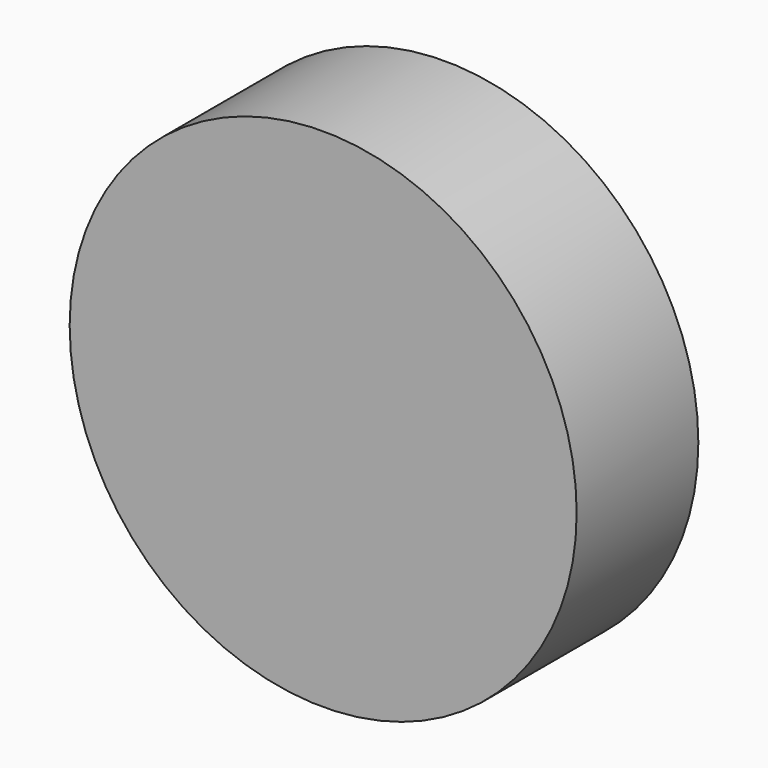
from build123d import *

# Parameters (mm, degrees)
SKETCH_R  = 5
PAD_DEPTH = 3


with BuildPart() as part:
    # Sketch → Pad (new body)
    with BuildSketch(Plane.XZ):
        Circle(SKETCH_R)
    extrude(amount=PAD_DEPTH)


solid = part.part
